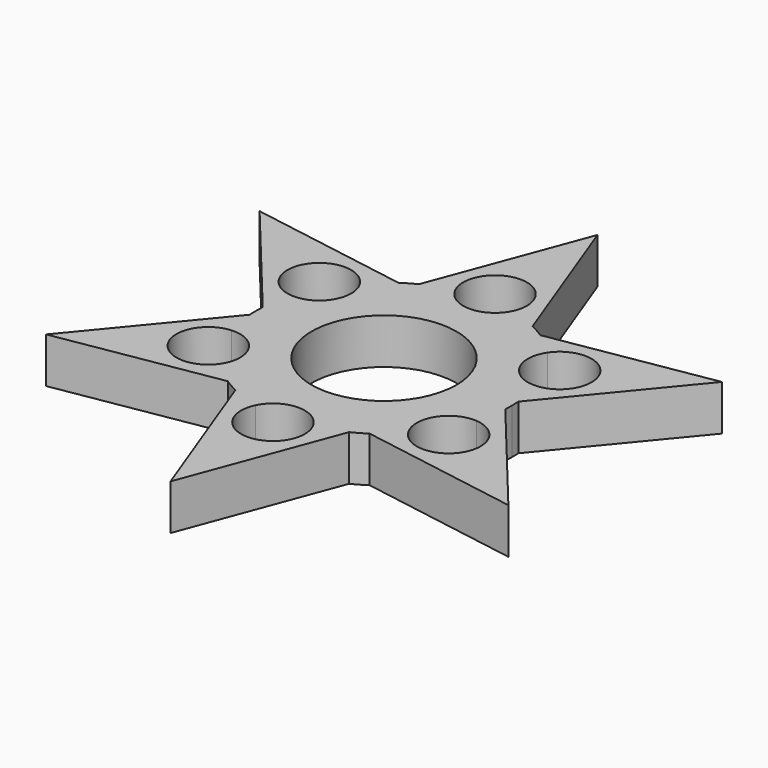
from build123d import *

# Parameters (mm, degrees)
F0_R     = 11.15
F1_DEPTH = 7


with BuildPart() as f1:
    # F0 (on Top) → F1 (new body)
    with BuildSketch(Plane.XY):
        with BuildLine():
            ThreePointArc((19.664218, -1.251263), (19.694042, -0.625947), (19.703987, 0))
            ThreePointArc((19.703987, 0), (19.694042, 0.625947), (19.664218, 1.251263))
            ThreePointArc((19.664218, 1.251263), (19.38245, 3.545102), (18.834039, 5.790172))
            ThreePointArc((18.834039, 5.790172), (14.252136, 8.228475), (14.431456, 13.41567))
            ThreePointArc((14.431456, 13.41567), (12.761374, 15.013143), (10.915734, 16.404081))
            ThreePointArc((10.915734, 16.404081), (9.851994, 17.064153), (8.748484, 17.655343))
            ThreePointArc((8.748484, 17.655343), (6.621076, 18.558245), (4.402583, 19.205842))
            ThreePointArc((4.402583, 19.205842), (0, 16.45695), (-4.402583, 19.205842))
            ThreePointArc((-4.402583, 19.205842), (-6.621076, 18.558245), (-8.748484, 17.655343))
            ThreePointArc((-8.748484, 17.655343), (-9.851994, 17.064153), (-10.915734, 16.404081))
            ThreePointArc((-10.915734, 16.404081), (-12.761374, 15.013143), (-14.431456, 13.41567))
            ThreePointArc((-14.431456, 13.41567), (-13.809265, 12.109453), (-13.595661, 10.678475))
            ThreePointArc((-13.595661, 10.678475), (-15.152612, 7.096014), (-18.834039, 5.790172))
            ThreePointArc((-18.834039, 5.790172), (-19.38245, 3.545102), (-19.664218, 1.251263))
            ThreePointArc((-19.664218, 1.251263), (-19.703987, 0), (-19.664218, -1.251263))
            ThreePointArc((-19.664218, -1.251263), (-19.38245, -3.545102), (-18.834039, -5.790172))
            ThreePointArc((-18.834039, -5.790172), (-15.152612, -7.096014), (-13.595661, -10.678475))
            ThreePointArc((-13.595661, -10.678475), (-13.809265, -12.109453), (-14.431456, -13.41567))
            ThreePointArc((-14.431456, -13.41567), (-12.761374, -15.013143), (-10.915734, -16.404081))
            ThreePointArc((-10.915734, -16.404081), (-9.851994, -17.064153), (-8.748484, -17.655343))
            ThreePointArc((-8.748484, -17.655343), (-6.621076, -18.558245), (-4.402583, -19.205842))
            ThreePointArc((-4.402583, -19.205842), (0, -16.45695), (4.402583, -19.205842))
            ThreePointArc((4.402583, -19.205842), (6.621076, -18.558245), (8.748484, -17.655343))
            ThreePointArc((8.748484, -17.655343), (9.851994, -17.064153), (10.915734, -16.404081))
            ThreePointArc((10.915734, -16.404081), (12.761374, -15.013143), (14.431456, -13.41567))
            ThreePointArc((14.431456, -13.41567), (14.252136, -8.228475), (18.834039, -5.790172))
            ThreePointArc((18.834039, -5.790172), (19.38245, -3.545102), (19.664218, -1.251263))
        make_face()
        Circle(F0_R, mode=Mode.SUBTRACT)
        with BuildLine():
            ThreePointArc((18.834039, 5.790172), (19.38245, 3.545102), (19.664218, 1.251263))
            Line((19.664218, 1.251263), (35.571692, 20.537326))
            Line((35.571692, 20.537326), (10.915734, 16.404081))
            ThreePointArc((10.915734, 16.404081), (12.761374, 15.013143), (14.431456, 13.41567))
            ThreePointArc((14.431456, 13.41567), (19.926639, 15.36487), (23.395661, 10.678475))
            ThreePointArc((23.395661, 10.678475), (22.078122, 7.335426), (18.834039, 5.790172))
        make_face()
        with BuildLine():
            ThreePointArc((4.402583, 19.205842), (6.621076, 18.558245), (8.748484, 17.655343))
            Line((8.748484, 17.655343), (0, 41.074652))
            Line((0, 41.074652), (-8.748484, 17.655343))
            ThreePointArc((-8.748484, 17.655343), (-6.621076, 18.558245), (-4.402583, 19.205842))
            ThreePointArc((-4.402583, 19.205842), (-1.103935, 26.130976), (4.9, 21.35695))
            ThreePointArc((4.9, 21.35695), (4.774026, 20.253015), (4.402583, 19.205842))
        make_face()
        with BuildLine():
            ThreePointArc((-14.431456, 13.41567), (-12.761374, 15.013143), (-10.915734, 16.404081))
            Line((-10.915734, 16.404081), (-35.571692, 20.537326))
            Line((-35.571692, 20.537326), (-19.664218, 1.251263))
            ThreePointArc((-19.664218, 1.251263), (-19.38245, 3.545102), (-18.834039, 5.790172))
            ThreePointArc((-18.834039, 5.790172), (-22.739185, 13.128475), (-14.431456, 13.41567))
        make_face()
        with BuildLine():
            Line((-35.571692, -20.537326), (-10.915734, -16.404081))
            ThreePointArc((-10.915734, -16.404081), (-12.761374, -15.013143), (-14.431456, -13.41567))
            ThreePointArc((-14.431456, -13.41567), (-22.739185, -13.128475), (-18.834039, -5.790172))
            ThreePointArc((-18.834039, -5.790172), (-19.38245, -3.545102), (-19.664218, -1.251263))
            Line((-19.664218, -1.251263), (-35.571692, -20.537326))
        make_face()
        with BuildLine():
            Line((35.571692, -20.537326), (19.664218, -1.251263))
            ThreePointArc((19.664218, -1.251263), (19.38245, -3.545102), (18.834039, -5.790172))
            ThreePointArc((18.834039, -5.790172), (22.078122, -7.335426), (23.395661, -10.678475))
            ThreePointArc((23.395661, -10.678475), (19.926639, -15.36487), (14.431456, -13.41567))
            ThreePointArc((14.431456, -13.41567), (12.761374, -15.013143), (10.915734, -16.404081))
            Line((10.915734, -16.404081), (35.571692, -20.537326))
        make_face()
        with BuildLine():
            Line((0, -41.074652), (8.748484, -17.655343))
            ThreePointArc((8.748484, -17.655343), (6.621076, -18.558245), (4.402583, -19.205842))
            ThreePointArc((4.402583, -19.205842), (4.774026, -20.253015), (4.9, -21.35695))
            ThreePointArc((4.9, -21.35695), (-1.103935, -26.130976), (-4.402583, -19.205842))
            ThreePointArc((-4.402583, -19.205842), (-6.621076, -18.558245), (-8.748484, -17.655343))
            Line((-8.748484, -17.655343), (0, -41.074652))
        make_face()
    extrude(amount=F1_DEPTH)


solid = f1.part
